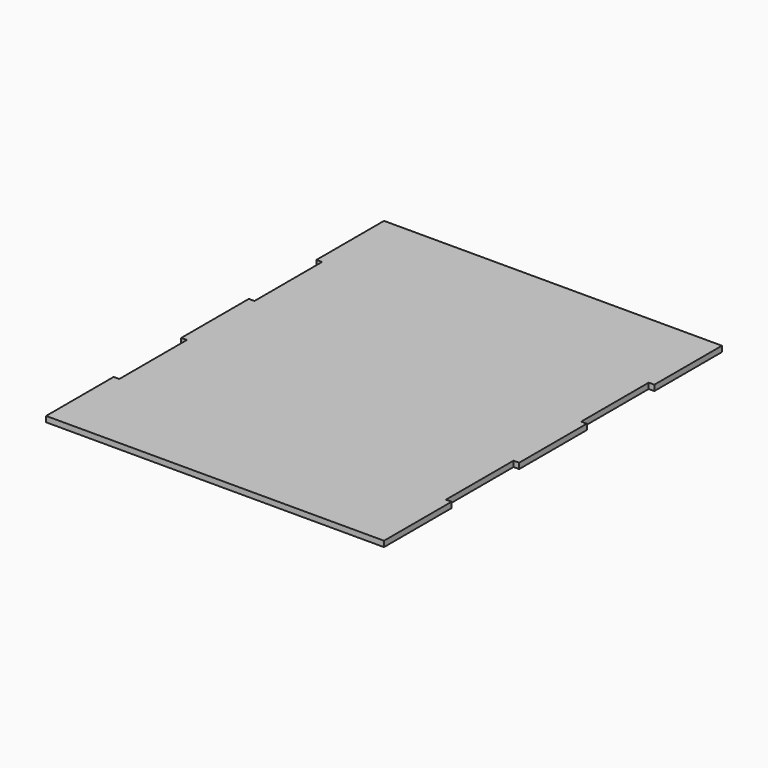
from build123d import *

# Parameters (mm, degrees)
PAD_DEPTH = 5


with BuildPart() as part:
    # CopySketch → Pad (new body)
    with BuildSketch(Plane.XY):
        Polygon((-83.836519, 179.355572), (-83.836519, 104.355572), (-78.836519, 104.355572), (-78.836519, 29.355572), (-83.836519, 29.355572), (-83.836519, -45.644428), (-78.836519, -45.644428), (-78.836519, -120.644428), (-83.836519, -120.644428), (-83.836519, -195.644428), (216.163481, -195.644428), (216.163481, -120.644428), (211.163481, -120.644428), (211.163481, -45.644428), (216.163481, -45.644428), (216.163481, 29.355572), (211.163481, 29.355572), (211.163481, 104.355572), (216.163481, 104.355572), (216.163481, 179.355572), align=None)
    extrude(amount=PAD_DEPTH)


solid = part.part
